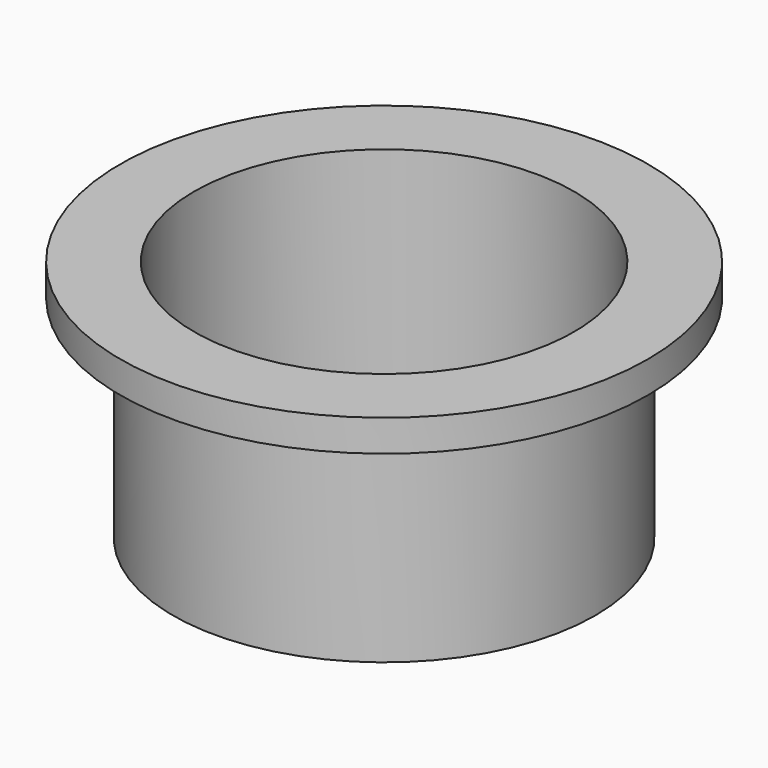
from build123d import *

# Parameters (mm, degrees)
F0_R     = 12.7
F1_DEPTH = 12.7
F3_D     = 22.86
F4_R     = 15.875
F5_DEPTH = 1.905
F7_D     = 22.86


with BuildPart() as f1:
    # F0 (on Top) → F1 (new body)
    with BuildSketch(Plane.XY):
        Circle(F0_R)
    extrude(amount=F1_DEPTH)

    # F3 (through all)
    with Locations(Plane.XY.offset(14.605)):
        with Locations((0, 0)):
            Hole(F3_D / 2)

    # F4 (on face) → F5 (join)
    with BuildSketch(Plane.XY.offset(12.7)):
        Circle(F4_R)
    extrude(amount=F5_DEPTH)

    # F7 (through all)
    with Locations(Plane.XY.offset(12.7)):
        with Locations((0, 0)):
            Hole(F7_D / 2)


solid = f1.part
